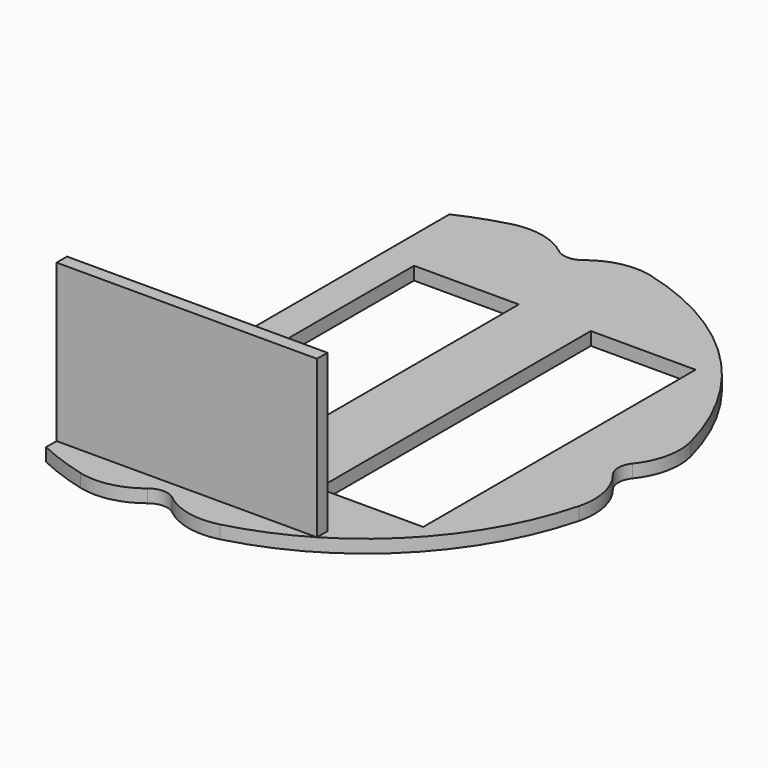
from build123d import *

# Parameters (mm, degrees)
F1_DEPTH = 1
F2_W     = 19.8857705285
F2_H     = 1
F3_DEPTH = 12
F4_W     = 8
F4_H     = 26
F5_DEPTH = 1.001
F6_R     = 1.5
F7_DEPTH = 1.001
F8_R     = 5


with BuildPart() as f1:
    # F0 (on Top) → F1 (new body)
    with BuildSketch(Plane.XY):
        with BuildLine():
            Line((-9, 19.25), (-9, -19.25))
            ThreePointArc((-9, -19.25), (21.25, 0), (-9, 19.25))
        make_face()
    extrude(amount=F1_DEPTH)

    # F2 (on face) → F3 (join)
    with BuildSketch(Plane.XY.offset(1)):
        with Locations((0.9428852643, -17.75)):
            Rectangle(F2_W, F2_H)
    extrude(amount=F3_DEPTH)

    # F4 (on face) → F5 (cut, through all)
    with BuildSketch(Plane.XY.offset(1)):
        with Locations((-2.5, -0.25)):
            Rectangle(F4_W, F4_H)
        with Locations((11, -0.25)):
            Rectangle(F4_W, F4_H)
    extrude(amount=-F5_DEPTH, mode=Mode.SUBTRACT)

    # F6 (on face) → F7 (cut, through all)
    with BuildSketch(Plane.XY.offset(1)):
        with Locations((0, -20.8)):
            Circle(F6_R)
        with Locations((20.8, 0)):
            Circle(F6_R)
        with Locations((0, 20.8)):
            Circle(F6_R)
        with Locations((-20.8, 0)):
            Circle(F6_R)
    extrude(amount=-F7_DEPTH, mode=Mode.SUBTRACT)

    # F8
    f8_edges = [f1.edges().sort_by_distance(p)[0] for p in [
        (1.445467, -21.200781, 0.5),
        (-1.445467, -21.200781, 0.5),
        (21.200781, 1.445467, 0.5),
        (21.200781, -1.445467, 0.5),
        (1.445467, 21.200781, 0.5),
        (-1.445467, 21.200781, 0.5),
    ]]
    fillet(f8_edges, radius=F8_R)


solid = f1.part
